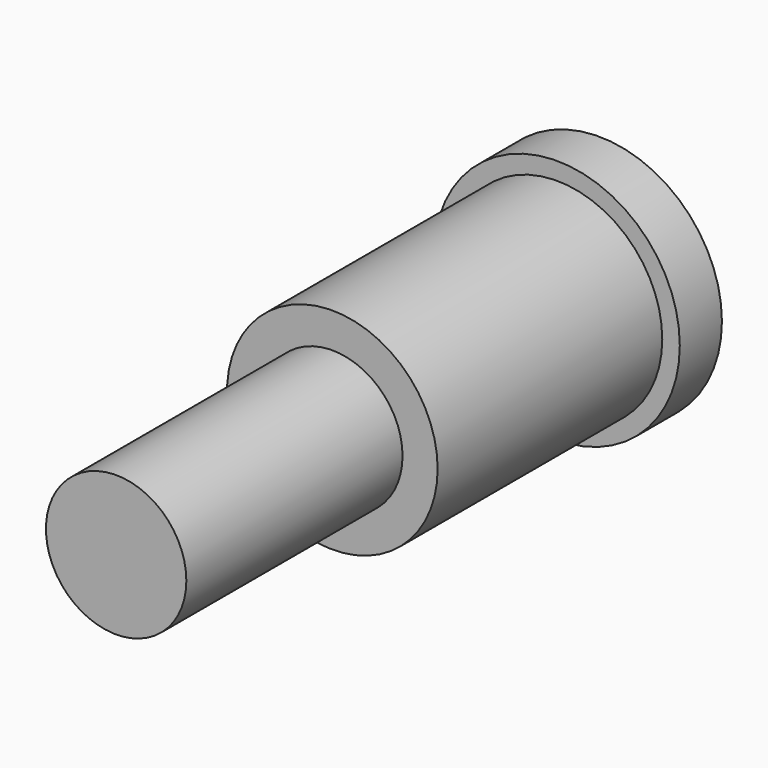
from build123d import *

# Parameters (mm, degrees)
F0_R     = 3.5
F1_DEPTH = 1.5
F2_R     = 3
F3_DEPTH = 8
F4_R     = 2
F5_DEPTH = 7.7
F6_R     = 2.429154
F7_DEPTH = 0.5


with BuildPart() as f1:
    # F0 (on Front) → F1 (new body)
    with BuildSketch(Plane.XZ):
        with Locations((-14.26011, 19.491863)):
            Circle(F0_R)
    extrude(amount=F1_DEPTH)

    # F2 (on face) → F3 (join)
    with BuildSketch(Plane.XZ.offset(1.5)):
        with Locations((-14.26011, 19.491863)):
            Circle(F2_R)
    extrude(amount=F3_DEPTH)

    # F4 (on face) → F5 (join)
    with BuildSketch(Plane.XZ.offset(9.5)):
        with Locations((-14.26011, 19.491863)):
            Circle(F4_R)
    extrude(amount=F5_DEPTH)

    # F6 (on face) → F7 (cut)
    with BuildSketch(Plane(origin=(0, 0, 0), x_dir=(-1, 0, 0), z_dir=(0, 1, 0))):
        with Locations((14.26011, 19.491863)):
            Circle(F6_R)
    extrude(amount=-F7_DEPTH, mode=Mode.SUBTRACT)


solid = f1.part
